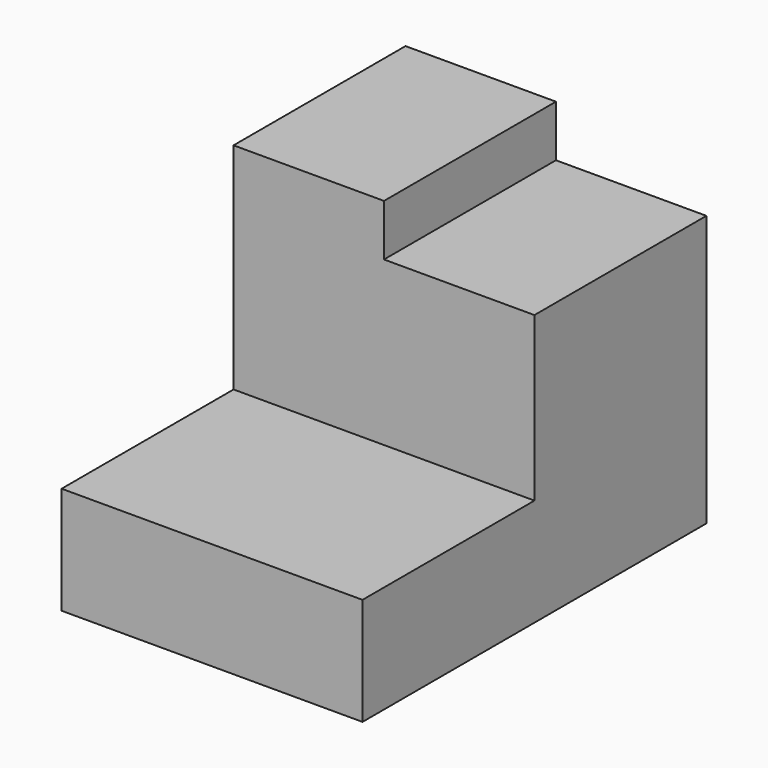
from build123d import *

# Parameters (mm, degrees)
F0_W     = 2540
F0_H     = 635
F1_DEPTH = 1778
F2_W     = 889
F2_H     = 1270
F3_DEPTH = 1270
F4_W     = 889
F4_H     = 1270
F5_DEPTH = 965.2


with BuildPart() as f1:
    # F0 (on Right) → F1 (new body)
    with BuildSketch(Plane.YZ):
        with Locations((-1270, -317.5)):
            Rectangle(F0_W, F0_H)
    extrude(amount=F1_DEPTH)

    # F2 (on face) → F3 (join)
    with BuildSketch(Plane.XY):
        with Locations((444.5, -635)):
            Rectangle(F2_W, F2_H)
    extrude(amount=F3_DEPTH)

    # F4 (on face) → F5 (join)
    with BuildSketch(Plane.XY):
        with Locations((1333.5, -635)):
            Rectangle(F4_W, F4_H)
    extrude(amount=F5_DEPTH)


solid = f1.part
